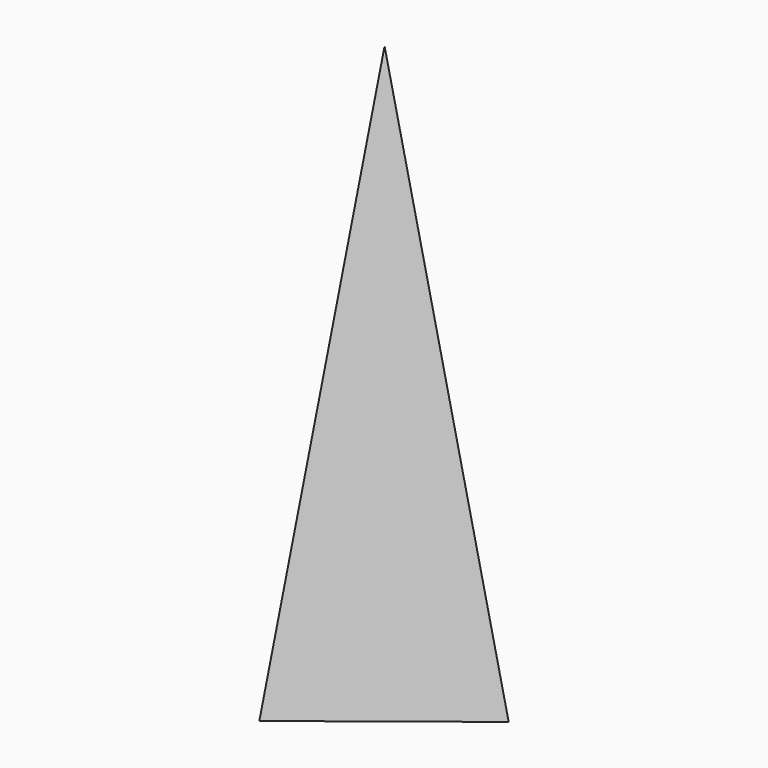
from build123d import *


with BuildPart() as f3:
    # F0 (on Top) → F3 section 0
    with BuildSketch(Plane.XY, mode=Mode.PRIVATE) as f3_s0:
        Polygon((124.990839, 18.028936), (-78.108937, 99.230774), (-46.881903, -117.25971), align=None)
    loft([f3_s0.sketch, Vertex(0, 0, 635)])


solid = f3.part
